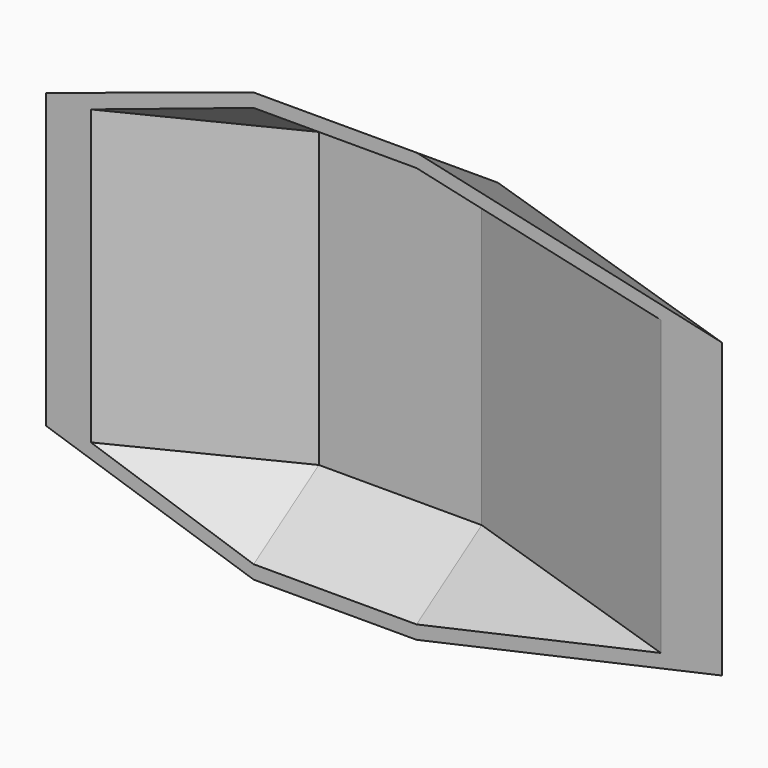
from build123d import *

# Parameters (mm, degrees)
F0_W     = 20
F0_H     = 2.5
F1_DEPTH = 36
F5_W     = 108.4840968251
F5_H     = 66.9420473278
F6_DEPTH = 25


with BuildPart() as f1:
    # F0 (on Top) → F1 (new body)
    with BuildSketch(Plane.XY):
        Polygon((-11.042611652, 7.0852233041), (-10, 5), (0, 10), (0, 12.5), align=None)
        Polygon((0, 0), (-20, 0), (-10, 5), (-11.042611652, 7.0852233041), (-30.5902134255, -2.5), (0, -2.5), align=None)
        Polygon((20, 0), (0, 0), (0, -2.5), (64.9998660191, -2.5), (20, 12.5), (20, 10), (50, 0), align=None)
        with Locations((10, 11.25)):
            Rectangle(F0_W, F0_H)
    extrude(amount=F1_DEPTH)

    # F3: sweep along a path in F2
    with BuildLine(Plane.YZ) as f3_path:
        Line((12.28813377, 36), (-2.71186623, 46))
    # F1_face (on face) → F3 (sweep)
    with BuildSketch(Plane(origin=(15.9254159415, 2.5999378956, 36), x_dir=(1, 0, 0), z_dir=(0, 0, 1))):
        Polygon((-15.9254159415, 9.9000621044), (-46.515629367, -5.0999378956), (49.0744500776, -5.0999378956), (4.0745840585, 9.9000621044), align=None)
        Polygon((4.0745840585, 7.4000621044), (34.0745840585, -2.5999378956), (-35.9254159415, -2.5999378956), (-15.9254159415, 7.4000621044), align=None, mode=Mode.SUBTRACT)
    sweep(path=f3_path.line)

    # F4: sweep along a path in F2
    with BuildLine(Plane.YZ) as f4_path:
        Line((12.28813377, 0), (-2.71186623, -10))
    # F1_face1 (on face) → F4 (sweep)
    with BuildSketch(Plane(origin=(15.9254159415, 2.5999378956, 0), x_dir=(1, 0, 0), z_dir=(0, 0, -1))):
        Polygon((-46.515629367, 5.0999378956), (-15.9254159415, -9.9000621044), (4.0745840585, -9.9000621044), (49.0744500776, 5.0999378956), align=None)
        Polygon((34.0745840585, 2.5999378956), (4.0745840585, -7.4000621044), (-15.9254159415, -7.4000621044), (-35.9254159415, 2.5999378956), align=None, mode=Mode.SUBTRACT)
    sweep(path=f4_path.line)

    # F5 (on Front) → F6 (cut)
    with BuildSketch(Plane.XZ):
        with Locations((17.6961012185, 16.9055629522)):
            Rectangle(F5_W, F5_H)
    extrude(amount=F6_DEPTH, mode=Mode.SUBTRACT)


solid = f1.part
